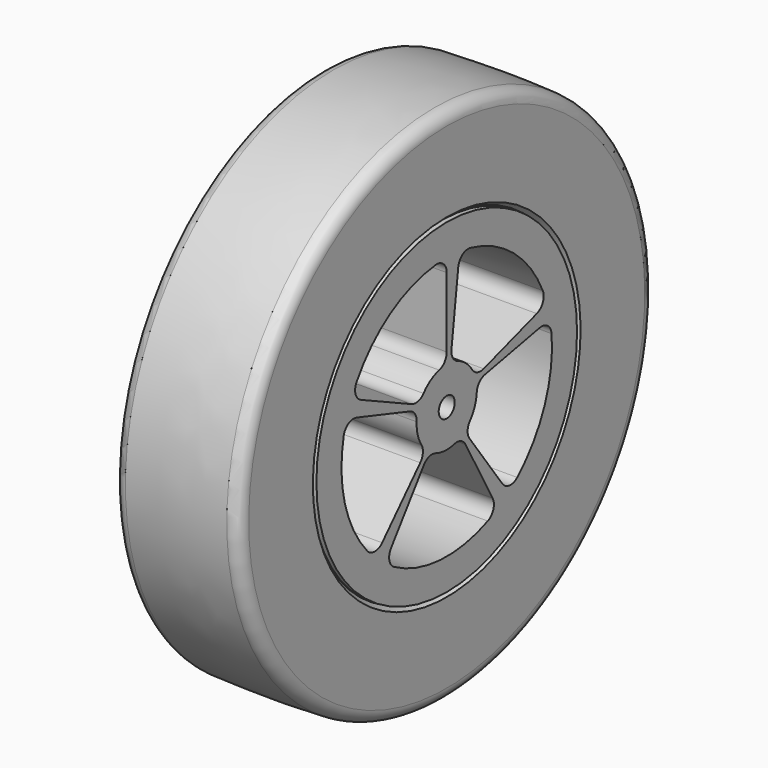
from build123d import *

# Parameters (mm, degrees)
F3_DEPTH = 50.001
F4_R     = 4
F5_DEPTH = 50.001


with BuildPart() as f1:
    # F0 (on Front) → F1 (revolve)
    with BuildSketch(Plane.XZ):
        Polygon((-25, 0), (0, 0), (25, 0), (25, 65), (23, 65), (23, 60), (0, 60), (-23, 60), (-23, 65), (-25, 65), align=None)
    revolve(axis=Axis((11.969276, 0, 0), (-1, 0, 0)))

    # F2 (on face) → F3 (cut, through all)
    with BuildSketch(Plane.YZ.offset(25)):
        with BuildLine():
            ThreePointArc((-12.647707, -8.06446), (-14.522214, -3.755701), (-14.971661, 0.921604))
            ThreePointArc((-14.971661, 0.921604), (-15.828714, 4.042019), (-18.41713, 5.984088))
            Line((-18.41713, 5.984088), (-44.924209, 14.59676))
            ThreePointArc((-44.924209, 14.59676), (-48.970894, 14.170681), (-51.360799, 10.877423))
            ThreePointArc((-51.360799, 10.877423), (-50.827751, -13.144951), (-39.647686, -34.41382))
            ThreePointArc((-39.647686, -34.41382), (-35.960825, -36.135519), (-32.214948, -34.546305))
            Line((-32.214948, -34.546305), (-13.20684, -14.162605))
            ThreePointArc((-13.20684, -14.162605), (-11.884495, -11.209144), (-12.647707, -8.06446))
        make_face()
        with BuildLine():
            ThreePointArc((0, 47.236109), (-1.65572, 50.953069), (-5.526316, 52.208331))
            ThreePointArc((-5.526316, 52.208331), (-28.20823, 44.27805), (-44.981296, 27.072735))
            ThreePointArc((-44.981296, 27.072735), (-45.479427, 23.034287), (-42.810454, 19.962841))
            Line((-42.810454, 19.962841), (-17.550576, 8.183966))
            ThreePointArc((-17.550576, 8.183966), (-14.33304, 7.83901), (-11.578114, 9.536629))
            ThreePointArc((-11.578114, 9.536629), (-8.059495, 12.650871), (-3.75, 14.523688))
            ThreePointArc((-3.75, 14.523688), (-1.047153, 16.303055), (0, 19.364917))
            Line((0, 19.364917), (0, 47.236109))
        make_face()
        with BuildLine():
            Line((5.756632, 46.884019), (2.359988, 19.220574))
            ThreePointArc((2.359988, 19.220574), (3.026188, 16.053919), (5.492039, 13.958421))
            ThreePointArc((5.492039, 13.958421), (9.541173, 11.574369), (12.654034, 8.054528))
            ThreePointArc((12.654034, 8.054528), (15.181538, 6.033823), (18.41713, 5.984088))
            Line((18.41713, 5.984088), (44.924209, 14.59676))
            ThreePointArc((44.924209, 14.59676), (47.947603, 17.320047), (47.945348, 21.3891))
            ThreePointArc((47.945348, 21.3891), (33.394106, 40.510291), (11.847716, 51.14569))
            ThreePointArc((11.847716, 51.14569), (7.852993, 50.371491), (5.756632, 46.884019))
        make_face()
        with BuildLine():
            ThreePointArc((-5.502996, -13.954105), (-8.735531, -13.804949), (-11.382412, -15.666547))
            Line((-11.382412, -15.666547), (-27.764688, -38.214815))
            ThreePointArc((-27.764688, -38.214815), (-28.609957, -42.195106), (-26.216404, -45.485714))
            ThreePointArc((-26.216404, -45.485714), (-3.205047, -52.402077), (20.477678, -48.341645))
            ThreePointArc((20.477678, -48.341645), (23.254415, -45.367266), (22.900522, -41.313631))
            Line((22.900522, -41.313631), (9.3883, -16.936937))
            ThreePointArc((9.3883, -16.936937), (6.988019, -14.766642), (3.761401, -14.520739))
            ThreePointArc((3.761401, -14.520739), (-0.915727, -14.972022), (-5.502996, -13.954105))
        make_face()
        with BuildLine():
            ThreePointArc((11.570623, -9.545715), (10.42986, -12.573947), (11.382412, -15.666547))
            Line((11.382412, -15.666547), (27.764688, -38.214815))
            ThreePointArc((27.764688, -38.214815), (31.288968, -40.248691), (35.15817, -38.98914))
            ThreePointArc((35.15817, -38.98914), (48.846923, -19.241313), (52.303588, 4.53704))
            ThreePointArc((52.303588, 4.53704), (50.332843, 8.097006), (46.368249, 9.013076))
            Line((46.368249, 9.013076), (19.009129, 3.695002))
            ThreePointArc((19.009129, 3.695002), (16.203328, 2.082857), (14.97238, -0.90985))
            ThreePointArc((14.97238, -0.90985), (13.956264, -5.497518), (11.570623, -9.545715))
        make_face()
    extrude(amount=-F3_DEPTH, mode=Mode.SUBTRACT)

    # F4 (on face) → F5 (cut, through all)
    with BuildSketch(Plane.YZ.offset(25)):
        Circle(F4_R)
    extrude(amount=-F5_DEPTH, mode=Mode.SUBTRACT)


with BuildPart() as f7:
    # F6 (on Front) → F7 (revolve)
    with BuildSketch(Plane.XZ):
        with BuildLine():
            Line((-22.9, 65.2), (-22.9, 60.1))
            Line((-22.9, 60.1), (0, 60.1))
            Line((0, 60.1), (22.9, 60.1))
            Line((22.9, 60.1), (22.9, 65.2))
            Line((22.9, 65.2), (25, 66.767409))
            Line((25, 66.767409), (25, 98.755323))
            ThreePointArc((25, 98.755323), (23.61325, 102.211394), (20.222229, 103.750382))
            ThreePointArc((20.222229, 103.750382), (0, 104.2), (-20.222229, 103.750382))
            ThreePointArc((-20.222229, 103.750382), (-23.61325, 102.211394), (-25, 98.755323))
            Line((-25, 98.755323), (-25, 66.767409))
            Line((-25, 66.767409), (-22.9, 65.2))
        make_face()
    revolve(axis=Axis((11.969276, 0, 0), (-1, 0, 0)))


solid = Compound([f1.part, f7.part])
